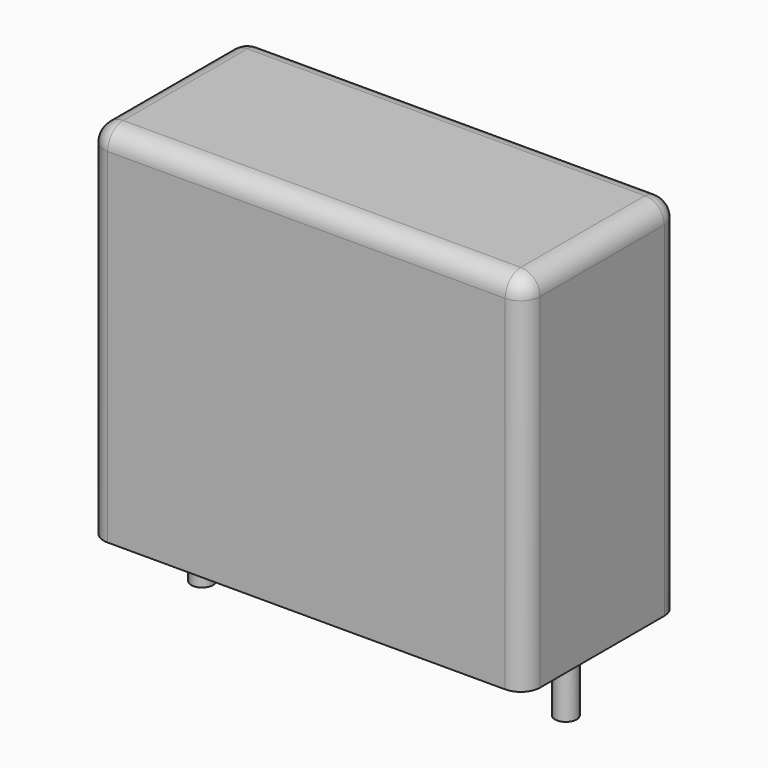
from build123d import *

# Parameters (mm, degrees)
SKETCH_W     = 18
SKETCH_H     = 8
PAD_DEPTH    = 15
FILLET_R     = 0.8
SKETCH001_R  = 0.45
PAD001_DEPTH = 3.2


with BuildPart() as fillet_body:
    # Sketch → Pad (new body)
    with BuildSketch(Plane.XY.offset(0.1)):
        with Locations((7.5, 0)):
            Rectangle(SKETCH_W, SKETCH_H)
    extrude(amount=PAD_DEPTH)

    # Fillet
    fillet_edges = [fillet_body.edges().sort_by_distance(p)[0] for p in [
        (-1.5, 0, 15.1),
        (-1.5, -4, 7.6),
        (7.5, -4, 15.1),
        (16.5, -4, 7.6),
        (16.5, 0, 15.1),
        (16.5, 4, 7.6),
        (7.5, 4, 15.1),
        (-1.5, 4, 7.6),
    ]]
    fillet(fillet_edges, radius=FILLET_R)


with BuildPart() as pad001:
    # Sketch001 → Pad001 (new body)
    with BuildSketch(Plane.XY.offset(0.5)):
        Circle(SKETCH001_R)
        with Locations((15, 0)):
            Circle(SKETCH001_R)
    extrude(amount=-PAD001_DEPTH)


solid = Compound([fillet_body.part, pad001.part])
